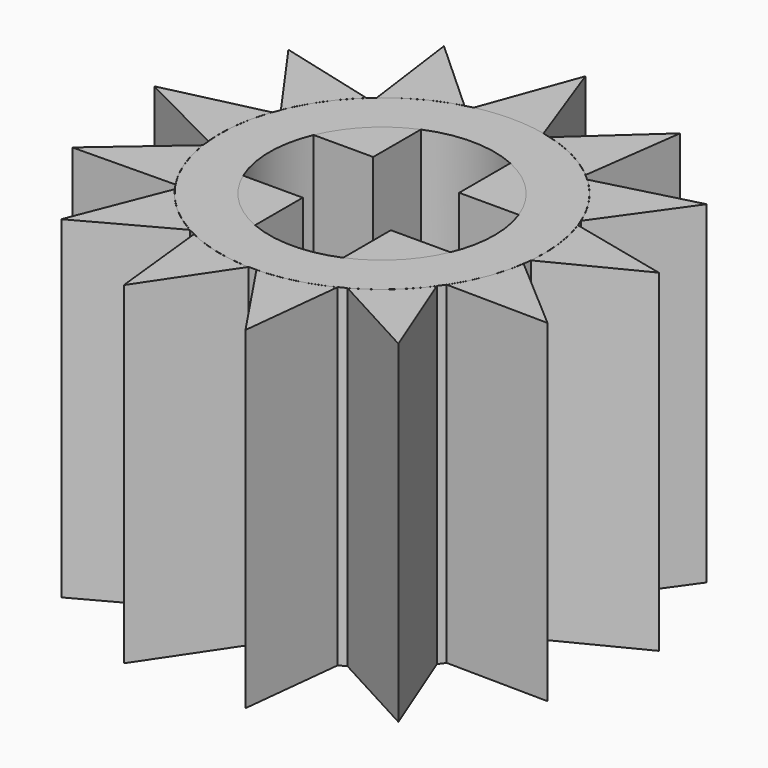
from build123d import *

# Parameters (mm, degrees)
F1_DEPTH = 7.6
F3_COUNT = 13
F4_DEPTH = 7.6
F5_DEPTH = 7.6


with BuildPart() as f1:
    # F0 (on Top) → F1 (new body)
    with BuildSketch(Plane.XY):
        with BuildLine():
            Line((0, 5.8), (-0.79586, 3.613393))
            ThreePointArc((-0.79586, 3.613393), (-0.400279, 3.678284), (0, 3.7))
            Line((0, 3.7), (0, 5.8))
        make_face()
        with BuildLine():
            ThreePointArc((0, 3.7), (0.400279, 3.678284), (0.79586, 3.613393))
            Line((0.79586, 3.613393), (0, 5.8))
            Line((0, 5.8), (0, 3.7))
        make_face()
    extrude(amount=F1_DEPTH)


with BuildPart() as f3_1:
    # F3: instance of F1
    add(f1.part.rotate(Axis((0, 0, 7.24467), (0, 0, 1)), 1 * 360 / F3_COUNT))


with BuildPart() as f3_2:
    # F3: instance of F1
    add(f1.part.rotate(Axis((0, 0, 7.24467), (0, 0, 1)), 2 * 360 / F3_COUNT))


with BuildPart() as f3_3:
    # F3: instance of F1
    add(f1.part.rotate(Axis((0, 0, 7.24467), (0, 0, 1)), 3 * 360 / F3_COUNT))


with BuildPart() as f3_4:
    # F3: instance of F1
    add(f1.part.rotate(Axis((0, 0, 7.24467), (0, 0, 1)), 4 * 360 / F3_COUNT))


with BuildPart() as f3_5:
    # F3: instance of F1
    add(f1.part.rotate(Axis((0, 0, 7.24467), (0, 0, 1)), 5 * 360 / F3_COUNT))


with BuildPart() as f3_6:
    # F3: instance of F1
    add(f1.part.rotate(Axis((0, 0, 7.24467), (0, 0, 1)), 6 * 360 / F3_COUNT))


with BuildPart() as f3_7:
    # F3: instance of F1
    add(f1.part.rotate(Axis((0, 0, 7.24467), (0, 0, 1)), 7 * 360 / F3_COUNT))


with BuildPart() as f3_8:
    # F3: instance of F1
    add(f1.part.rotate(Axis((0, 0, 7.24467), (0, 0, 1)), 8 * 360 / F3_COUNT))


with BuildPart() as f3_9:
    # F3: instance of F1
    add(f1.part.rotate(Axis((0, 0, 7.24467), (0, 0, 1)), 9 * 360 / F3_COUNT))


with BuildPart() as f3_10:
    # F3: instance of F1
    add(f1.part.rotate(Axis((0, 0, 7.24467), (0, 0, 1)), 10 * 360 / F3_COUNT))


with BuildPart() as f3_11:
    # F3: instance of F1
    add(f1.part.rotate(Axis((0, 0, 7.24467), (0, 0, 1)), 11 * 360 / F3_COUNT))


with BuildPart() as f3_12:
    # F3: instance of F1
    add(f1.part.rotate(Axis((0, 0, 7.24467), (0, 0, 1)), 12 * 360 / F3_COUNT))


with BuildPart() as f4:
    # F0 (on Top) → F4 (new body)
    with BuildSketch(Plane.XY):
        with BuildLine():
            Line((-1.005245, 1.005245), (-1.005245, 2.365245))
            ThreePointArc((-1.005245, 2.365245), (-1.817264, 1.817264), (-2.365245, 1.005245))
            Line((-2.365245, 1.005245), (-1.005245, 1.005245))
        make_face()
        with BuildLine():
            Line((1.053053, 0.884351), (2.413053, 0.884351))
            ThreePointArc((2.413053, 0.884351), (1.880524, 1.751721), (1.053053, 2.344351))
            Line((1.053053, 2.344351), (1.053053, 0.884351))
        make_face()
        with BuildLine():
            ThreePointArc((1.005245, -2.365245), (1.817264, -1.817264), (2.365245, -1.005245))
            Line((2.365245, -1.005245), (1.005245, -1.005245))
            Line((1.005245, -1.005245), (1.005245, -2.365245))
        make_face()
        with BuildLine():
            ThreePointArc((-2.365245, -1.005245), (-1.817264, -1.817264), (-1.005245, -2.365245))
            Line((-1.005245, -2.365245), (-1.005245, -1.005245))
            Line((-1.005245, -1.005245), (-2.365245, -1.005245))
        make_face()
    extrude(amount=F4_DEPTH)


with BuildPart() as f5:
    # F0 (on Top) → F5 (new body)
    with BuildSketch(Plane.XY):
        with BuildLine():
            ThreePointArc((-0.79586, 3.613393), (-2.3179, -2.88398), (3.7, 0))
            ThreePointArc((3.7, 0), (2.88398, 2.3179), (0.79586, 3.613393))
            ThreePointArc((0.79586, 3.613393), (0.400279, 3.678284), (0, 3.7))
            ThreePointArc((0, 3.7), (-0.400279, 3.678284), (-0.79586, 3.613393))
        make_face()
        with BuildLine():
            ThreePointArc((2.413053, 0.884351), (2.530459, 0.449085), (2.57, 0))
            ThreePointArc((2.57, 0), (2.518291, -0.512943), (2.365245, -1.005245))
            ThreePointArc((2.365245, -1.005245), (1.817264, -1.817264), (1.005245, -2.365245))
            ThreePointArc((1.005245, -2.365245), (0, -2.57), (-1.005245, -2.365245))
            ThreePointArc((-1.005245, -2.365245), (-1.817264, -1.817264), (-2.365245, -1.005245))
            ThreePointArc((-2.365245, -1.005245), (-2.57, 0), (-2.365245, 1.005245))
            ThreePointArc((-2.365245, 1.005245), (-1.817264, 1.817264), (-1.005245, 2.365245))
            ThreePointArc((-1.005245, 2.365245), (0.026087, 2.569868), (1.053053, 2.344351))
            ThreePointArc((1.053053, 2.344351), (1.880524, 1.751721), (2.413053, 0.884351))
        make_face(mode=Mode.SUBTRACT)
    extrude(amount=F5_DEPTH)


solid = Compound([f1.part, f3_1.part, f3_2.part, f3_3.part, f3_4.part, f3_5.part, f3_6.part, f3_7.part, f3_8.part, f3_9.part, f3_10.part, f3_11.part, f3_12.part, f4.part, f5.part])
